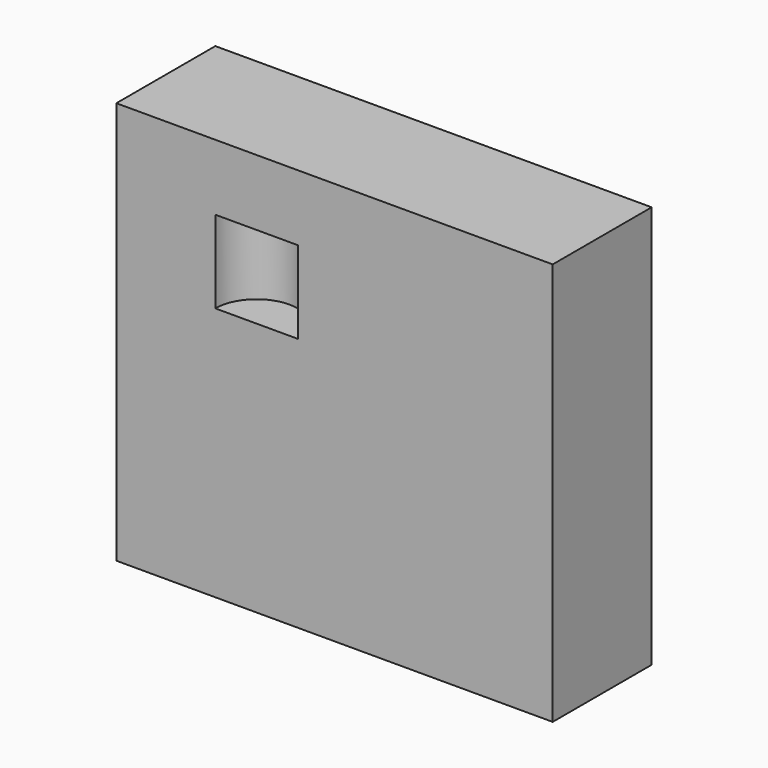
from build123d import *

# Parameters (mm, degrees)
F2_W     = 67.197241
F2_H     = 62.02823
F0_DEPTH = 19.05
F3_ANGLE = -180


with BuildPart() as f0:
    # F2 (on Front) → F0 (new body)
    with BuildSketch(Plane.XZ):
        with Locations((2.756816, -10.165736)):
            Rectangle(F2_W, F2_H)
    extrude(amount=F0_DEPTH)

    # F1 (on face) → F3 (revolve, cut)
    with BuildSketch(Plane.XZ.offset(19.05)):
        Polygon((-15.601805, -2.011621), (-9.251805, -2.011621), (-9.251805, 10.688379), (-12.426805, 10.688379), (-15.601805, 10.688379), (-15.601805, 8.631975), align=None)
    revolve(axis=Axis((-9.251805, -19.05, 4.338379), (0, 0, 1)), revolution_arc=F3_ANGLE, mode=Mode.SUBTRACT)


solid = f0.part
